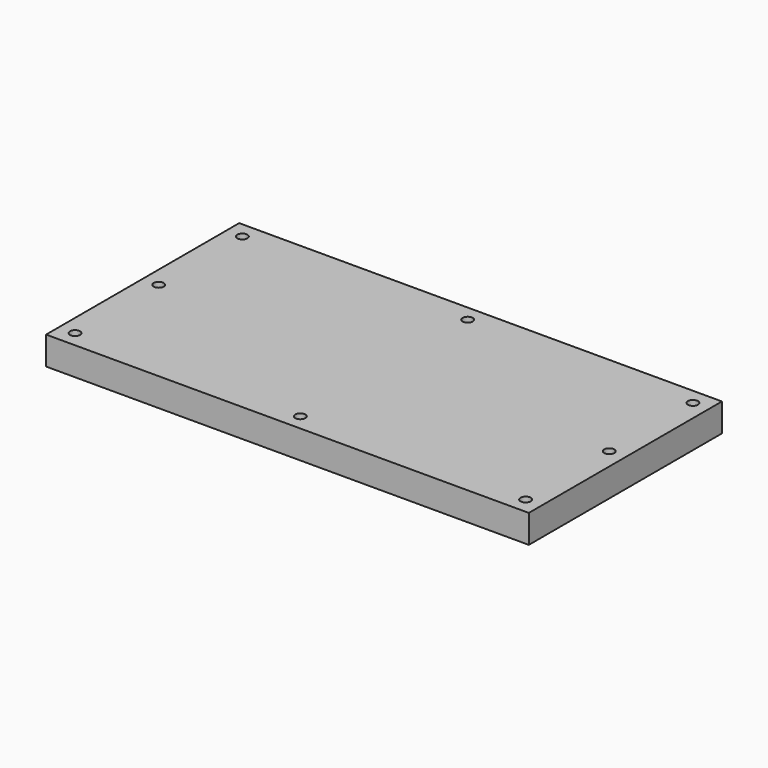
from build123d import *

# Parameters (mm, degrees)
F0_W           = 152.4
F0_H           = 76.2
F1_DEPTH       = 8.89
F3_D           = 3.175
F3_CSINK_D     = 7.62
F3_CSINK_ANGLE = 82


with BuildPart() as f1:
    # F0 (on Top) → F1 (new body)
    with BuildSketch(Plane.XY):
        with Locations((76.2, 38.1)):
            Rectangle(F0_W, F0_H)
    extrude(amount=F1_DEPTH)

    # F3 (through all)
    with Locations(Plane(origin=(0, 0, 0), x_dir=(1, 0, 0), z_dir=(0, 0, -1))):
        with Locations((5.08, -5.08), (5.08, -38.1), (5.08, -71.12), (76.2, -71.12), (147.32, -71.12), (147.32, -38.1), (147.32, -5.08), (76.2, -5.08)):
            CounterSinkHole(F3_D / 2, F3_CSINK_D / 2, counter_sink_angle=F3_CSINK_ANGLE)


solid = f1.part
